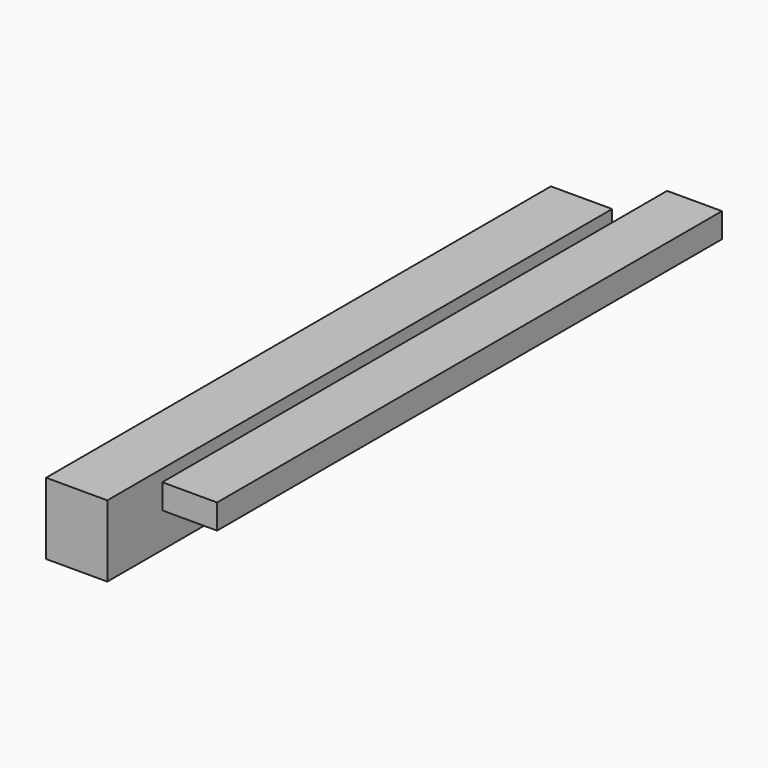
from build123d import *

# Parameters (mm, degrees)
F0_W     = 61.645388
F0_H     = 72.021616
F1_DEPTH = 635


with BuildPart() as f1:
    # F0 (on Front) → F1 (new body)
    with BuildSketch(Plane.XZ):
        Polygon((86.100973, 70.051193), (86.100973, 53.19738), (86.100973, 45.105979), (141.268283, 45.105979), (141.268283, 70.051193), align=None)
        Rectangle(F0_W, F0_H)
    extrude(amount=F1_DEPTH)


solid = f1.part
